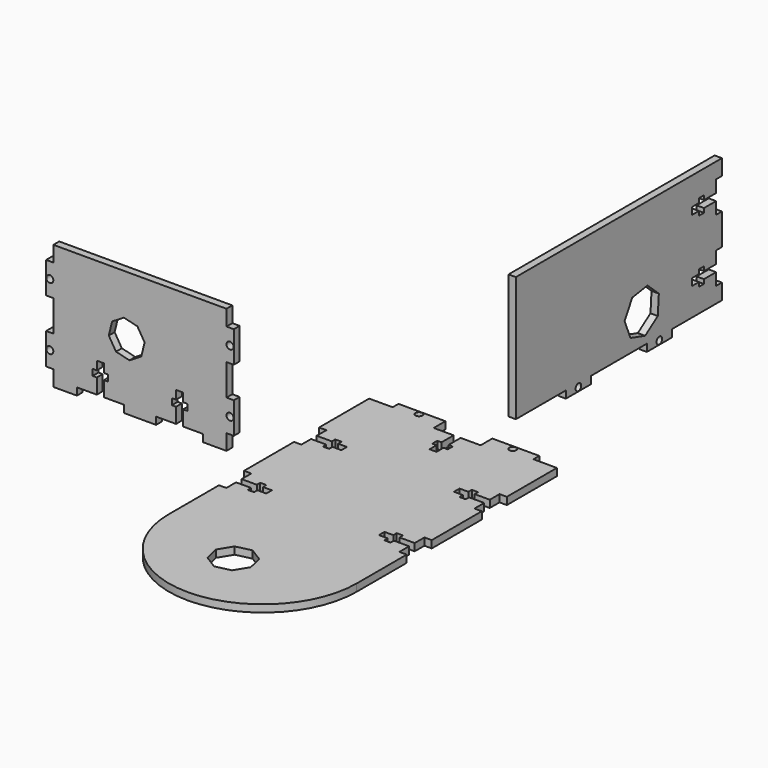
from build123d import *

# Parameters (mm, degrees)
F1_R     = 1.4224
F3_DEPTH = 2.9718
F2_R     = 1.4224
F4_DEPTH = 2.9718
F0_R     = 1.4224
F5_DEPTH = 2.9718


with BuildPart() as f3:
    # F1 (on Right) → F3 (new body)
    with BuildSketch(Plane.YZ):
        Polygon((71.293264, 6.35), (71.293264, 0), (96.693264, 0), (96.693264, -2.9718), (109.393264, -2.9718), (109.393264, 0), (137.765064, 0), (137.765064, -2.9718), (150.465064, -2.9718), (150.465064, 0), (175.865064, 0), (175.865064, 6.35), (172.893264, 6.35), (172.893264, 11.2776), (166.746464, 11.2776), (166.746464, 9.5504), (164.206464, 9.5504), (164.206464, 11.2776), (160.625064, 11.2776), (160.625064, 14.1224), (164.206464, 14.1224), (164.206464, 15.8496), (166.746464, 15.8496), (166.746464, 14.1224), (172.893264, 14.1224), (172.893264, 19.05), (175.865064, 19.05), (175.865064, 31.75), (172.893264, 31.75), (172.893264, 36.6776), (166.746464, 36.6776), (166.746464, 34.9504), (164.206464, 34.9504), (164.206464, 36.6776), (160.625064, 36.6776), (160.625064, 39.5224), (164.206464, 39.5224), (164.206464, 41.2496), (166.746464, 41.2496), (166.746464, 39.5224), (172.893264, 39.5224), (172.893264, 44.45), (175.865064, 44.45), (175.865064, 50.8), (71.293264, 50.8), (71.293264, 44.45), (71.293264, 31.75), (71.293264, 19.05), align=None)
        with Locations((103.043264, -1.4478)):
            Circle(F1_R, mode=Mode.SUBTRACT)
        with Locations((144.115064, -1.4478)):
            Circle(F1_R, mode=Mode.SUBTRACT)
        Polygon((129.408274, 5.411716), (126.501168, 12.669516), (130.362993, 19.467547), (138.085716, 20.686754), (143.85397, 15.409048), (143.324141, 7.608651), (136.895201, 3.159419), align=None, mode=Mode.SUBTRACT)
    extrude(amount=F3_DEPTH)


with BuildPart() as f4:
    # F2 (on Front) → F4 (new body)
    with BuildSketch(Plane.XZ):
        Polygon((-125.342384, 6.35), (-125.342384, 0), (-115.817384, 0), (-115.817384, 2.9718), (-107.714784, 2.9718), (-107.714784, 9.1186), (-109.441984, 9.1186), (-109.441984, 11.6586), (-107.714784, 11.6586), (-107.714784, 15.136967), (-104.869984, 15.136967), (-104.869984, 11.6586), (-103.142784, 11.6586), (-103.142784, 9.1186), (-104.869984, 9.1186), (-104.869984, 2.9718), (-96.767384, 2.9718), (-96.767384, 0), (-83.660984, 0), (-83.660984, 2.968298), (-75.558384, 2.968298), (-75.558384, 9.115098), (-77.285584, 9.115098), (-77.285584, 11.655098), (-75.524543, 11.655098), (-75.524543, 15.133832), (-72.747424, 15.133832), (-72.747424, 11.655098), (-70.986384, 11.655098), (-70.986384, 9.115098), (-72.713584, 9.115098), (-72.713584, 2.968298), (-64.610984, 2.968298), (-64.610984, 0), (-55.085984, 0), (-55.085984, 6.35), (-52.114184, 6.35), (-52.114184, 19.05), (-55.085984, 19.05), (-55.085984, 31.75), (-52.114184, 31.75), (-52.114184, 44.45), (-55.085984, 44.45), (-55.085984, 50.8), (-125.342384, 50.8), (-125.342384, 44.45), (-128.314184, 44.45), (-128.314184, 31.75), (-125.342384, 31.75), (-125.342384, 19.05), (-128.314184, 19.05), (-128.314184, 6.35), align=None)
        with Locations((-126.790184, 12.7)):
            Circle(F2_R, mode=Mode.SUBTRACT)
        with Locations((-53.638184, 12.7)):
            Circle(F2_R, mode=Mode.SUBTRACT)
        Polygon((-94.458002, 19.557385), (-99.926115, 20.884319), (-102.85437, 25.689141), (-101.527437, 31.157254), (-96.722614, 34.08551), (-91.254502, 32.758576), (-88.326246, 27.953754), (-89.653179, 22.485641), align=None, mode=Mode.SUBTRACT)
        with Locations((-126.790184, 38.1)):
            Circle(F2_R, mode=Mode.SUBTRACT)
        with Locations((-53.638184, 38.1)):
            Circle(F2_R, mode=Mode.SUBTRACT)
    extrude(amount=F4_DEPTH)


with BuildPart() as f5:
    # F0 (on Top) → F5 (new body)
    with BuildSketch(Plane.XY):
        with BuildLine():
            Line((-29.116031, 48.878397), (-38.641031, 48.878397))
            Line((-38.641031, 48.878397), (-38.641031, 23.478397))
            Line((-38.641031, 23.478397), (-35.669231, 23.478397))
            Line((-35.669231, 23.478397), (-35.669231, 18.550797))
            Line((-35.669231, 18.550797), (-29.522431, 18.550797))
            Line((-29.522431, 18.550797), (-29.522431, 20.277997))
            Line((-29.522431, 20.277997), (-26.982431, 20.277997))
            Line((-26.982431, 20.277997), (-26.982431, 18.550797))
            Line((-26.982431, 18.550797), (-23.401031, 18.550797))
            Line((-23.401031, 18.550797), (-23.401031, 15.705997))
            Line((-23.401031, 15.705997), (-26.982431, 15.705997))
            Line((-26.982431, 15.705997), (-26.982431, 13.978797))
            Line((-26.982431, 13.978797), (-29.522431, 13.978797))
            Line((-29.522431, 13.978797), (-29.522431, 15.705997))
            Line((-29.522431, 15.705997), (-35.669231, 15.705997))
            Line((-35.669231, 15.705997), (-35.669231, 10.778397))
            Line((-35.669231, 10.778397), (-38.641031, 10.778397))
            Line((-38.641031, 10.778397), (-38.641031, -14.621603))
            Line((-38.641031, -14.621603), (-35.669231, -14.621603))
            Line((-35.669231, -14.621603), (-35.669231, -19.549203))
            Line((-35.669231, -19.549203), (-29.522431, -19.549203))
            Line((-29.522431, -19.549203), (-29.522431, -17.822003))
            Line((-29.522431, -17.822003), (-26.982431, -17.822003))
            Line((-26.982431, -17.822003), (-26.982431, -19.549203))
            Line((-26.982431, -19.549203), (-23.401031, -19.549203))
            Line((-23.401031, -19.549203), (-23.401031, -22.394003))
            Line((-23.401031, -22.394003), (-26.982431, -22.394003))
            Line((-26.982431, -22.394003), (-26.982431, -24.121203))
            Line((-26.982431, -24.121203), (-29.522431, -24.121203))
            Line((-29.522431, -24.121203), (-29.522431, -22.394003))
            Line((-29.522431, -22.394003), (-35.669231, -22.394003))
            Line((-35.669231, -22.394003), (-35.669231, -27.321603))
            Line((-35.669231, -27.321603), (-38.641031, -27.321603))
            Line((-38.641031, -27.321603), (-38.641031, -52.721603))
            ThreePointArc((-38.641031, -52.721603), (-0.541031, -90.821603), (37.558969, -52.721603))
            Line((37.558969, -52.721603), (37.558969, -27.321603))
            Line((37.558969, -27.321603), (34.587169, -27.321603))
            Line((34.587169, -27.321603), (34.587169, -22.394003))
            Line((34.587169, -22.394003), (28.440369, -22.394003))
            Line((28.440369, -22.394003), (28.440369, -24.121203))
            Line((28.440369, -24.121203), (25.900369, -24.121203))
            Line((25.900369, -24.121203), (25.900369, -22.394003))
            Line((25.900369, -22.394003), (22.318969, -22.394003))
            Line((22.318969, -22.394003), (22.318969, -19.549203))
            Line((22.318969, -19.549203), (25.900369, -19.549203))
            Line((25.900369, -19.549203), (25.900369, -17.822003))
            Line((25.900369, -17.822003), (28.440369, -17.822003))
            Line((28.440369, -17.822003), (28.440369, -19.549203))
            Line((28.440369, -19.549203), (34.587169, -19.549203))
            Line((34.587169, -19.549203), (34.587169, -14.621603))
            Line((34.587169, -14.621603), (37.558969, -14.621603))
            Line((37.558969, -14.621603), (37.558969, 10.778397))
            Line((37.558969, 10.778397), (34.587169, 10.778397))
            Line((34.587169, 10.778397), (34.587169, 15.705997))
            Line((34.587169, 15.705997), (28.440369, 15.705997))
            Line((28.440369, 15.705997), (28.440369, 13.978797))
            Line((28.440369, 13.978797), (25.900369, 13.978797))
            Line((25.900369, 13.978797), (25.900369, 15.705997))
            Line((25.900369, 15.705997), (22.318969, 15.705997))
            Line((22.318969, 15.705997), (22.318969, 18.550797))
            Line((22.318969, 18.550797), (25.900369, 18.550797))
            Line((25.900369, 18.550797), (25.900369, 20.277997))
            Line((25.900369, 20.277997), (28.440369, 20.277997))
            Line((28.440369, 20.277997), (28.440369, 18.550797))
            Line((28.440369, 18.550797), (34.587169, 18.550797))
            Line((34.587169, 18.550797), (34.587169, 23.478397))
            Line((34.587169, 23.478397), (37.558969, 23.478397))
            Line((37.558969, 23.478397), (37.558969, 48.878397))
            Line((37.558969, 48.878397), (28.033969, 48.878397))
            Line((28.033969, 48.878397), (28.033969, 51.850197))
            Line((28.033969, 51.850197), (8.983969, 51.850197))
            Line((8.983969, 51.850197), (8.983969, 48.878397))
            Line((8.983969, 48.878397), (8.983969, 45.906597))
            Line((8.983969, 45.906597), (0.881369, 45.906597))
            Line((0.881369, 45.906597), (0.881369, 39.759797))
            Line((0.881369, 39.759797), (2.608569, 39.759797))
            Line((2.608569, 39.759797), (2.608569, 37.219797))
            Line((2.608569, 37.219797), (0.881369, 37.219797))
            Line((0.881369, 37.219797), (0.881369, 33.638397))
            Line((0.881369, 33.638397), (-1.963431, 33.638397))
            Line((-1.963431, 33.638397), (-1.963431, 37.219797))
            Line((-1.963431, 37.219797), (-3.690631, 37.219797))
            Line((-3.690631, 37.219797), (-3.690631, 39.759797))
            Line((-3.690631, 39.759797), (-1.963431, 39.759797))
            Line((-1.963431, 39.759797), (-1.963431, 45.906597))
            Line((-1.963431, 45.906597), (-10.066031, 45.906597))
            Line((-10.066031, 45.906597), (-10.066031, 48.878397))
            Line((-10.066031, 48.878397), (-10.066031, 51.850197))
            Line((-10.066031, 51.850197), (-29.116031, 51.850197))
            Line((-29.116031, 51.850197), (-29.116031, 48.878397))
        make_face()
        Polygon((2.943657, -58.890075), (4.373476, -65.011869), (1.055749, -70.351665), (-5.066045, -71.781485), (-10.405842, -68.463757), (-11.835661, -62.341963), (-8.517934, -57.002167), (-2.39614, -55.572348), align=None, mode=Mode.SUBTRACT)
        with Locations((-19.591031, 50.326197)):
            Circle(F0_R, mode=Mode.SUBTRACT)
        with Locations((18.508969, 50.326197)):
            Circle(F0_R, mode=Mode.SUBTRACT)
    extrude(amount=F5_DEPTH)


solid = Compound([f3.part, f4.part, f5.part])
